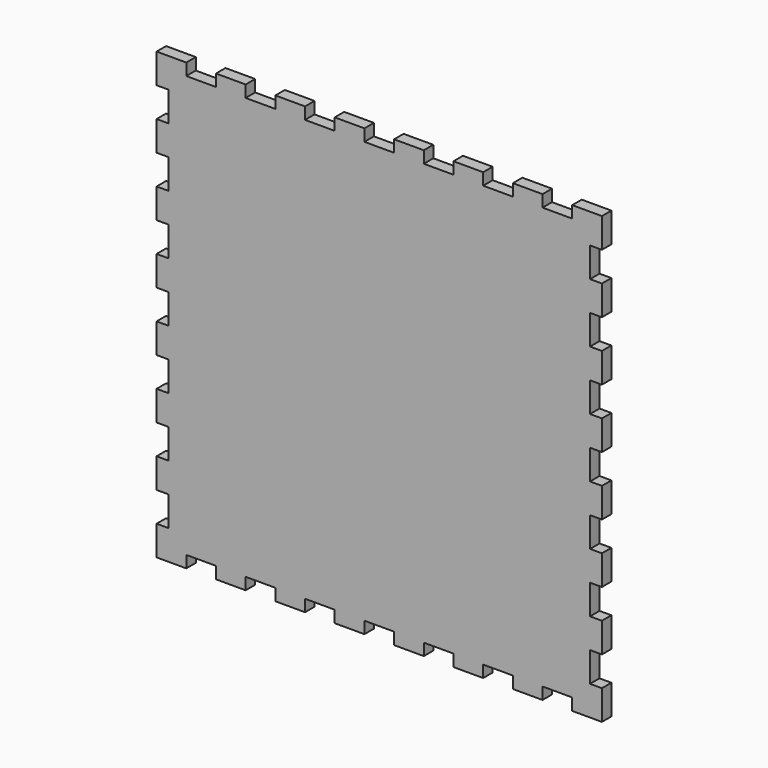
from build123d import *

# Parameters (mm, degrees)
F0_W     = 20
F0_H     = 20
F0_H_2   = 30
F0_W_2   = 30
F0_W_3   = 50
F0_H_3   = 50
F1_DEPTH = 20


with BuildPart() as f1:
    # F0 (on Front) → F1 (new body)
    with BuildSketch(Plane.XZ):
        with Locations((-336.827279, 390)):
            Rectangle(F0_W, F0_H)
        with Locations((-336.827279, 365)):
            Rectangle(F0_W, F0_H_2)
        with Locations((-311.827279, 390)):
            Rectangle(F0_W_2, F0_H)
        with Locations((-221.827279, 390)):
            Rectangle(F0_W_3, F0_H)
        with Locations((-121.827279, 390)):
            Rectangle(F0_W_3, F0_H)
        with Locations((-21.827279, 390)):
            Rectangle(F0_W_3, F0_H)
        with Locations((78.172721, 390)):
            Rectangle(F0_W_3, F0_H)
        with Locations((178.172721, 390)):
            Rectangle(F0_W_3, F0_H)
        with Locations((278.172721, 390)):
            Rectangle(F0_W_3, F0_H)
        with Locations((368.172721, 390)):
            Rectangle(F0_W_2, F0_H)
        with Locations((393.172721, 390)):
            Rectangle(F0_W, F0_H)
        with Locations((393.172721, 365)):
            Rectangle(F0_W, F0_H_2)
        with Locations((-336.827279, 275)):
            Rectangle(F0_W, F0_H_3)
        with Locations((-336.827279, 175)):
            Rectangle(F0_W, F0_H_3)
        with Locations((-336.827279, 75)):
            Rectangle(F0_W, F0_H_3)
        with Locations((-336.827279, -25)):
            Rectangle(F0_W, F0_H_3)
        with Locations((-336.827279, -125)):
            Rectangle(F0_W, F0_H_3)
        with Locations((-336.827279, -225)):
            Rectangle(F0_W, F0_H_3)
        with Locations((-336.827279, -315)):
            Rectangle(F0_W, F0_H_2)
        with Locations((-336.827279, -340)):
            Rectangle(F0_W, F0_H)
        with Locations((-311.827279, -340)):
            Rectangle(F0_W_2, F0_H)
        with Locations((-221.827279, -340)):
            Rectangle(F0_W_3, F0_H)
        with Locations((-121.827279, -340)):
            Rectangle(F0_W_3, F0_H)
        with Locations((-21.827279, -340)):
            Rectangle(F0_W_3, F0_H)
        with Locations((78.172721, -340)):
            Rectangle(F0_W_3, F0_H)
        with Locations((178.172721, -340)):
            Rectangle(F0_W_3, F0_H)
        with Locations((278.172721, -340)):
            Rectangle(F0_W_3, F0_H)
        with Locations((368.172721, -340)):
            Rectangle(F0_W_2, F0_H)
        with Locations((393.172721, -340)):
            Rectangle(F0_W, F0_H)
        with Locations((393.172721, -315)):
            Rectangle(F0_W, F0_H_2)
        with Locations((393.172721, -225)):
            Rectangle(F0_W, F0_H_3)
        with Locations((393.172721, -125)):
            Rectangle(F0_W, F0_H_3)
        with Locations((393.172721, -25)):
            Rectangle(F0_W, F0_H_3)
        with Locations((393.172721, 75)):
            Rectangle(F0_W, F0_H_3)
        with Locations((393.172721, 175)):
            Rectangle(F0_W, F0_H_3)
        with Locations((393.172721, 275)):
            Rectangle(F0_W, F0_H_3)
        Polygon((-296.827279, 380), (-326.827279, 380), (-326.827279, 350), (-326.827279, 300), (-326.827279, 250), (-326.827279, 200), (-326.827279, 150), (-326.827279, 100), (-326.827279, 50), (-326.827279, 0), (-326.827279, -50), (-326.827279, -100), (-326.827279, -150), (-326.827279, -200), (-326.827279, -250), (-326.827279, -300), (-326.827279, -330), (-296.827279, -330), (-246.827279, -330), (-196.827279, -330), (-146.827279, -330), (-96.827279, -330), (-46.827279, -330), (3.172721, -330), (53.172721, -330), (103.172721, -330), (153.172721, -330), (203.172721, -330), (253.172721, -330), (303.172721, -330), (353.172721, -330), (383.172721, -330), (383.172721, -300), (383.172721, -250), (383.172721, -200), (383.172721, -150), (383.172721, -100), (383.172721, -50), (383.172721, 0), (383.172721, 50), (383.172721, 100), (383.172721, 150), (383.172721, 200), (383.172721, 250), (383.172721, 300), (383.172721, 350), (383.172721, 380), (353.172721, 380), (303.172721, 380), (253.172721, 380), (203.172721, 380), (153.172721, 380), (103.172721, 380), (53.172721, 380), (3.172721, 380), (-46.827279, 380), (-96.827279, 380), (-146.827279, 380), (-196.827279, 380), (-246.827279, 380), align=None)
    extrude(amount=F1_DEPTH)


solid = f1.part
